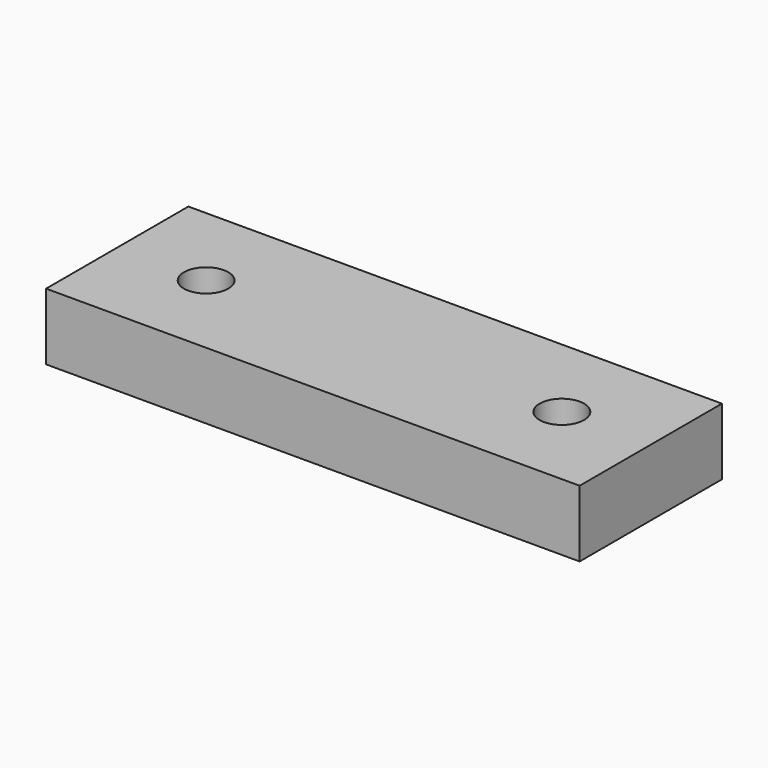
from build123d import *

# Parameters (mm, degrees)
F0_W     = 120
F0_H     = 15
F1_DEPTH = 40
F2_R     = 5
F3_DEPTH = 15.001


with BuildPart() as f1:
    # F0 (on Front) → F1 (new body)
    with BuildSketch(Plane.XZ):
        with Locations((60, 7.5)):
            Rectangle(F0_W, F0_H)
    extrude(amount=F1_DEPTH)

    # F2 (on Top) → F3 (cut, through all)
    with BuildSketch(Plane.XY):
        with Locations((20, -20)):
            Circle(F2_R)
        with Locations((100, -20)):
            Circle(F2_R)
    extrude(amount=F3_DEPTH, mode=Mode.SUBTRACT)


solid = f1.part
